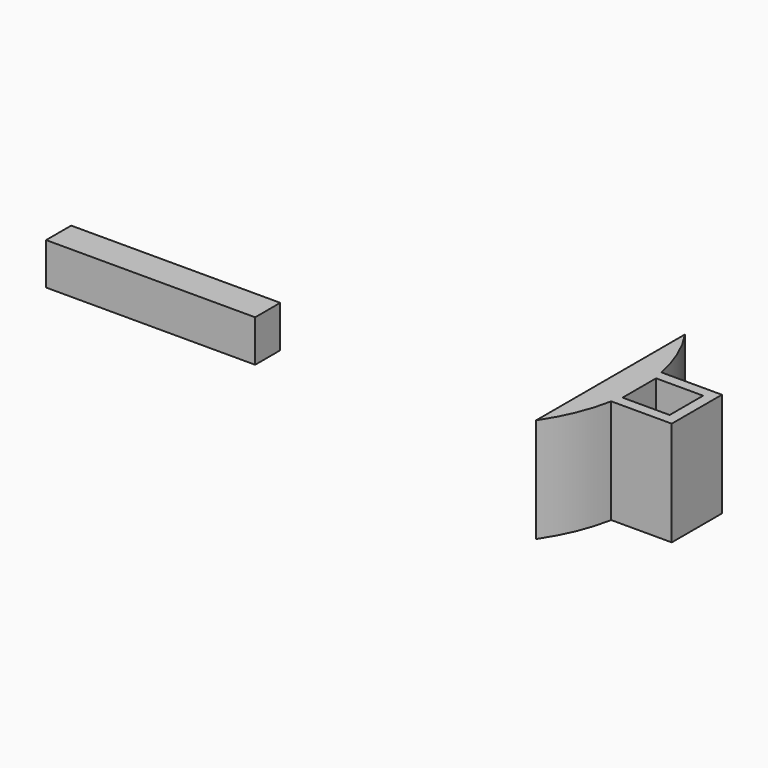
from build123d import *

# Parameters (mm, degrees)
CYLINDER_R     = 15.75
CYLINDER_DEPTH = 10
BOX_W          = 7.5
BOX_H          = 6
BOX_DEPTH      = 10
BOX001_W       = 4.5
BOX001_H       = 4
BOX001_DEPTH   = 10
BOX003_W       = 30
BOX003_H       = 35
BOX003_DEPTH   = 10
BOX002_W       = 20
BOX002_H       = 3
BOX002_DEPTH   = 4


with BuildPart() as body:
    # Cylinder → Cylinder (join)
    with BuildSketch(Plane.XY):
        Circle(CYLINDER_R)
    extrude(amount=CYLINDER_DEPTH)

    # Box → Box (join)
    with BuildSketch(Plane(origin=(13.75, -3, 0), x_dir=(1, 0, 0), z_dir=(0, 0, 1))):
        with Locations((3.75, 3)):
            Rectangle(BOX_W, BOX_H)
    extrude(amount=BOX_DEPTH)

    # Box001 → Box001 (cut)
    with BuildSketch(Plane(origin=(15.75, -2, 0), x_dir=(1, 0, 0), z_dir=(0, 0, 1))):
        with Locations((2.25, 2)):
            Rectangle(BOX001_W, BOX001_H)
    extrude(amount=BOX001_DEPTH, mode=Mode.SUBTRACT)

    # Box003 → Box003 (cut)
    with BuildSketch(Plane(origin=(-17, -17, 0), x_dir=(1, 0, 0), z_dir=(0, 0, 1))):
        with Locations((15, 17.5)):
            Rectangle(BOX003_W, BOX003_H)
    extrude(amount=BOX003_DEPTH, mode=Mode.SUBTRACT)


with BuildPart() as body001:
    # Box002 → Box002 (join)
    with BuildSketch(Plane(origin=(-41, 0, 0), x_dir=(1, 0, 0), z_dir=(0, 0, 1))):
        with Locations((10, 1.5)):
            Rectangle(BOX002_W, BOX002_H)
    extrude(amount=BOX002_DEPTH)


solid = Compound([body.part, body001.part])
